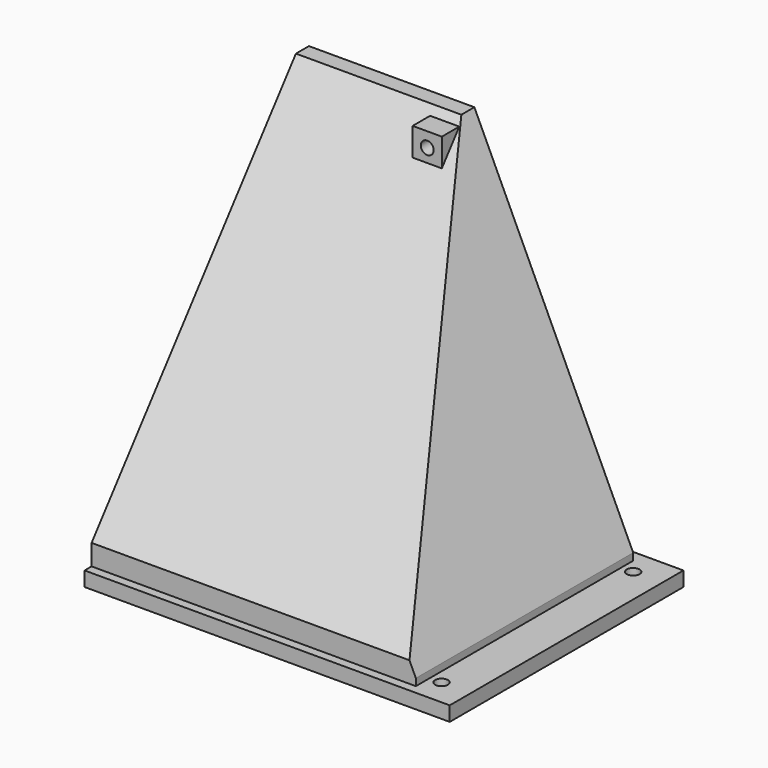
from build123d import *

# Parameters (mm, degrees)
BOX015_W               = 30
BOX015_H               = 9
BOX015_DEPTH           = 5
BOX015_ROLL_ANGLE      = 36
CHAMFER005_SIZE        = 1
BOX014_W               = 150
BOX014_H               = 150
BOX014_DEPTH           = 150
CYLINDER007_R          = 2.2
CYLINDER007_DEPTH      = 50
CYLINDER005_R          = 2.2
CYLINDER005_DEPTH      = 50
CYLINDER006_R          = 2.2
CYLINDER006_DEPTH      = 50
CYLINDER004_R          = 2.2
CYLINDER004_DEPTH      = 50
FUSION_ROLL_ANGLE      = -90
BOX013_W               = 10
BOX013_H               = 8
BOX013_DEPTH           = 10
CHAMFER003_SIZE        = 6
BOX012_W               = 10
BOX012_H               = 8
BOX012_DEPTH           = 10
CHAMFER002_SIZE        = 6
BOX011_W               = 130
BOX011_H               = 10
BOX011_DEPTH           = 10
CYLINDER002_R          = 2.2
CYLINDER002_DEPTH      = 50
CYLINDER003_R          = 2.2
CYLINDER003_DEPTH      = 50
CYLINDER001_R          = 2.2
CYLINDER001_DEPTH      = 50
CYLINDER_R             = 2.2
CYLINDER_DEPTH         = 50
BOX001_W               = 220
BOX001_H               = 70
BOX001_DEPTH           = 12
BOX_W                  = 250
BOX_H                  = 100
BOX_DEPTH              = 5
CYLINDER008_R          = 55
CYLINDER008_DEPTH      = 10
CYLINDER008_ROLL_ANGLE = 90
BOX010_W               = 300
BOX010_H               = 20
BOX010_DEPTH           = 41
BOX008_W               = 234
BOX008_H               = 93
BOX008_DEPTH           = 249
BOX008_ROLL_ANGLE      = -38
BOX009_W               = 120
BOX009_H               = 104
BOX009_DEPTH           = 200
BOX009_PLACEMENT_ANGLE = 25
BOX006_W               = 120
BOX006_H               = 104
BOX006_DEPTH           = 200
BOX006_PLACEMENT_ANGLE = 25
BOX007_W               = 222
BOX007_H               = 93
BOX007_DEPTH           = 120
BOX004_W               = 234
BOX004_H               = 93
BOX004_DEPTH           = 249
BOX004_ROLL_ANGLE      = -38
BOX005_W               = 120
BOX005_H               = 104
BOX005_DEPTH           = 200
BOX005_PLACEMENT_ANGLE = 25
BOX002_W               = 120
BOX002_H               = 104
BOX002_DEPTH           = 200
BOX002_PLACEMENT_ANGLE = 25
BOX003_W               = 222
BOX003_H               = 93
BOX003_DEPTH           = 120
CHAMFER_SIZE           = 2
CHAMFER001_SIZE        = 2
CHAMFER004_SIZE        = 1


with BuildPart() as chamfer005:
    # Box015 → Box015 (new body)
    with BuildSketch(Plane.XY):
        with Locations((15, 4.5)):
            Rectangle(BOX015_W, BOX015_H)
    extrude(amount=BOX015_DEPTH)


with BuildPart() as chamfer005_1:
    # Box015 roll: moved
    add(chamfer005.part.rotate(Axis((0, 0, 0), (1, 0, 0)), BOX015_ROLL_ANGLE))


with BuildPart() as chamfer005_2:
    # Box015 placement: moved
    add(chamfer005_1.part.moved(Location((-30, 39, 114))))

    # Chamfer005
    chamfer005_edges = [chamfer005_2.edges().sort_by_distance(p)[0] for p in [
        (-15, 46.281153, 119.290067),
    ]]
    chamfer(chamfer005_edges, length=CHAMFER005_SIZE)


with BuildPart() as cube014:
    # Box014 → Box014 (new body)
    with BuildSketch(Plane(origin=(0, -70, -1), x_dir=(1, 0, 0), z_dir=(0, 0, 1))):
        with Locations((75, 75)):
            Rectangle(BOX014_W, BOX014_H)
    extrude(amount=BOX014_DEPTH)


with BuildPart() as cylinder007:
    # Cylinder007 → Cylinder007 (new body)
    with BuildSketch(Plane(origin=(52.5, -52.5, 0), x_dir=(1, 0, 0), z_dir=(0, 0, 1))):
        Circle(CYLINDER007_R)
    extrude(amount=CYLINDER007_DEPTH)


with BuildPart() as cylinder005:
    # Cylinder005 → Cylinder005 (new body)
    with BuildSketch(Plane(origin=(52.5, 52.5, 0), x_dir=(1, 0, 0), z_dir=(0, 0, 1))):
        Circle(CYLINDER005_R)
    extrude(amount=CYLINDER005_DEPTH)


with BuildPart() as cylinder006:
    # Cylinder006 → Cylinder006 (new body)
    with BuildSketch(Plane(origin=(-52.5, 52.5, 0), x_dir=(1, 0, 0), z_dir=(0, 0, 1))):
        Circle(CYLINDER006_R)
    extrude(amount=CYLINDER006_DEPTH)


with BuildPart() as fan_holes:
    # Cylinder004 → Cylinder004 (new body)
    with BuildSketch(Plane(origin=(-52.5, -52.5, 0), x_dir=(1, 0, 0), z_dir=(0, 0, 1))):
        Circle(CYLINDER004_R)
    extrude(amount=CYLINDER004_DEPTH)

    # Fusion: union Cylinder007, Cylinder005, Cylinder006
    add(cylinder007.part)
    add(cylinder005.part)
    add(cylinder006.part)


with BuildPart() as fan_holes_1:
    # Fusion roll: moved
    add(fan_holes.part.rotate(Axis((0, 0, 0), (1, 0, 0)), FUSION_ROLL_ANGLE))


with BuildPart() as fan_holes_2:
    # Fusion placement: moved
    add(fan_holes_1.part.moved(Location((0, 15, 64))))


with BuildPart() as chamfer003:
    # Box013 → Box013 (new body)
    with BuildSketch(Plane(origin=(47.5, 31, 111.5), x_dir=(1, 0, 0), z_dir=(0, 0, 1))):
        with Locations((5, 4)):
            Rectangle(BOX013_W, BOX013_H)
    extrude(amount=BOX013_DEPTH)

    # Chamfer003
    chamfer003_edges = [chamfer003.edges().sort_by_distance(p)[0] for p in [
        (52.5, 39, 111.5),
    ]]
    chamfer(chamfer003_edges, length=CHAMFER003_SIZE)


with BuildPart() as part_mirroring002:
    # Part__Mirroring002: instance of Chamfer003
    add(chamfer003.part.mirror(Plane(origin=(0, 0, 0), x_dir=(0, -1, 0), z_dir=(1, 0, 0))))


with BuildPart() as chamfer002:
    # Box012 → Box012 (new body)
    with BuildSketch(Plane(origin=(47.5, 31, 111.5), x_dir=(1, 0, 0), z_dir=(0, 0, 1))):
        with Locations((5, 4)):
            Rectangle(BOX012_W, BOX012_H)
    extrude(amount=BOX012_DEPTH)

    # Chamfer002
    chamfer002_edges = [chamfer002.edges().sort_by_distance(p)[0] for p in [
        (52.5, 39, 111.5),
    ]]
    chamfer(chamfer002_edges, length=CHAMFER002_SIZE)


with BuildPart() as cube011:
    # Box011 → Box011 (new body)
    with BuildSketch(Plane(origin=(-65, 46, -2), x_dir=(1, 0, 0), z_dir=(0, 0, 1))):
        with Locations((65, 5)):
            Rectangle(BOX011_W, BOX011_H)
    extrude(amount=BOX011_DEPTH)


with BuildPart() as cylinder002:
    # Cylinder002 → Cylinder002 (new body)
    with BuildSketch(Plane(origin=(-115, 41, 0), x_dir=(1, 0, 0), z_dir=(0, 0, 1))):
        Circle(CYLINDER002_R)
    extrude(amount=CYLINDER002_DEPTH)


with BuildPart() as cylinder003:
    # Cylinder003 → Cylinder003 (new body)
    with BuildSketch(Plane(origin=(115, 41, 0), x_dir=(1, 0, 0), z_dir=(0, 0, 1))):
        Circle(CYLINDER003_R)
    extrude(amount=CYLINDER003_DEPTH)


with BuildPart() as cylinder001:
    # Cylinder001 → Cylinder001 (new body)
    with BuildSketch(Plane(origin=(115, -41, 0), x_dir=(1, 0, 0), z_dir=(0, 0, 1))):
        Circle(CYLINDER001_R)
    extrude(amount=CYLINDER001_DEPTH)


with BuildPart() as mount_holes:
    # Cylinder → Cylinder (new body)
    with BuildSketch(Plane(origin=(-115, -41, 0), x_dir=(1, 0, 0), z_dir=(0, 0, 1))):
        Circle(CYLINDER_R)
    extrude(amount=CYLINDER_DEPTH)

    # Fusion001: union Cylinder002, Cylinder003, Cylinder001
    add(cylinder002.part)
    add(cylinder003.part)
    add(cylinder001.part)


with BuildPart() as mount_holes_1:
    # Fusion001 placement: moved
    add(mount_holes.part.moved(Location((0, 0, -1))))


with BuildPart() as cube001:
    # Box001 → Box001 (new body)
    with BuildSketch(Plane(origin=(-110, -35, -1), x_dir=(1, 0, 0), z_dir=(0, 0, 1))):
        with Locations((110, 35)):
            Rectangle(BOX001_W, BOX001_H)
    extrude(amount=BOX001_DEPTH)


with BuildPart() as cut001:
    # Box → Box (new body)
    with BuildSketch(Plane(origin=(-125, -50, 0), x_dir=(1, 0, 0), z_dir=(0, 0, 1))):
        with Locations((125, 50)):
            Rectangle(BOX_W, BOX_H)
    extrude(amount=BOX_DEPTH)

    # Cut: cut Cube001
    add(cube001.part, mode=Mode.SUBTRACT)

    # Cut001: cut mount-holes
    add(mount_holes_1.part, mode=Mode.SUBTRACT)


with BuildPart() as cylinder008:
    # Cylinder008 → Cylinder008 (new body)
    with BuildSketch(Plane.XY):
        Circle(CYLINDER008_R)
    extrude(amount=CYLINDER008_DEPTH)


with BuildPart() as cylinder008_1:
    # Cylinder008 roll: moved
    add(cylinder008.part.rotate(Axis((0, 0, 0), (1, 0, 0)), CYLINDER008_ROLL_ANGLE))


with BuildPart() as cylinder008_2:
    # Cylinder008 placement: moved
    add(cylinder008_1.part.moved(Location((0, 49, 64))))


with BuildPart() as cube010:
    # Box010 → Box010 (new body)
    with BuildSketch(Plane(origin=(-150, -62, -12), x_dir=(1, 0, 0), z_dir=(0, 0, 1))):
        with Locations((150, 10)):
            Rectangle(BOX010_W, BOX010_H)
    extrude(amount=BOX010_DEPTH)


with BuildPart() as cube008:
    # Box008 → Box008 (new body)
    with BuildSketch(Plane.XY):
        with Locations((117, 46.5)):
            Rectangle(BOX008_W, BOX008_H)
    extrude(amount=BOX008_DEPTH)


with BuildPart() as cube008_1:
    # Box008 roll: moved
    add(cube008.part.rotate(Axis((0, 0, 0), (1, 0, 0)), BOX008_ROLL_ANGLE))


with BuildPart() as cube008_2:
    # Box008 placement: moved
    add(cube008_1.part.moved(Location((-121, -144, 39))))


with BuildPart() as cube009:
    # Box009 → Box009 (new body)
    with BuildSketch(Plane.XY):
        with Locations((60, 52)):
            Rectangle(BOX009_W, BOX009_H)
    extrude(amount=BOX009_DEPTH)


with BuildPart() as cube009_1:
    # Box009 placement: moved
    add(cube009.part.moved(Location((-245, -55, 4))).rotate(Axis((-245, -55, 4), (0, 1, 0)), BOX009_PLACEMENT_ANGLE))


with BuildPart() as part_mirroring001:
    # Part__Mirroring001: instance of Cube009
    add(cube009_1.part.mirror(Plane(origin=(0, 0, 0), x_dir=(0, -1, 0), z_dir=(1, 0, 0))))


with BuildPart() as fusion003:
    # Box006 → Box006 (new body)
    with BuildSketch(Plane.XY):
        with Locations((60, 52)):
            Rectangle(BOX006_W, BOX006_H)
    extrude(amount=BOX006_DEPTH)


with BuildPart() as fusion003_1:
    # Box006 placement: moved
    add(fusion003.part.moved(Location((-245, -55, 4))).rotate(Axis((-245, -55, 4), (0, 1, 0)), BOX006_PLACEMENT_ANGLE))

    # Fusion003: union Part__Mirroring001
    add(part_mirroring001.part)


with BuildPart() as cut006:
    # Box007 → Box007 (new body)
    with BuildSketch(Plane(origin=(-111, -47, 4), x_dir=(1, 0, 0), z_dir=(0, 0, 1))):
        with Locations((111, 46.5)):
            Rectangle(BOX007_W, BOX007_H)
    extrude(amount=BOX007_DEPTH)

    # Cut004: cut Fusion003
    add(fusion003_1.part, mode=Mode.SUBTRACT)

    # Cut005: cut Cube008
    add(cube008_2.part, mode=Mode.SUBTRACT)


with BuildPart() as cut006_1:
    # Cut005 placement: moved
    add(cut006.part.moved(Location((0, -3, -11))))

    # Cut006: cut Cube010
    add(cube010.part, mode=Mode.SUBTRACT)


with BuildPart() as cube004:
    # Box004 → Box004 (new body)
    with BuildSketch(Plane.XY):
        with Locations((117, 46.5)):
            Rectangle(BOX004_W, BOX004_H)
    extrude(amount=BOX004_DEPTH)


with BuildPart() as cube004_1:
    # Box004 roll: moved
    add(cube004.part.rotate(Axis((0, 0, 0), (1, 0, 0)), BOX004_ROLL_ANGLE))


with BuildPart() as cube004_2:
    # Box004 placement: moved
    add(cube004_1.part.moved(Location((-121, -144, 39))))


with BuildPart() as cube005:
    # Box005 → Box005 (new body)
    with BuildSketch(Plane.XY):
        with Locations((60, 52)):
            Rectangle(BOX005_W, BOX005_H)
    extrude(amount=BOX005_DEPTH)


with BuildPart() as cube005_1:
    # Box005 placement: moved
    add(cube005.part.moved(Location((-245, -55, 4))).rotate(Axis((-245, -55, 4), (0, 1, 0)), BOX005_PLACEMENT_ANGLE))


with BuildPart() as part_mirroring:
    # Part__Mirroring: instance of Cube005
    add(cube005_1.part.mirror(Plane(origin=(0, 0, 0), x_dir=(0, -1, 0), z_dir=(1, 0, 0))))


with BuildPart() as fusion002:
    # Box002 → Box002 (new body)
    with BuildSketch(Plane.XY):
        with Locations((60, 52)):
            Rectangle(BOX002_W, BOX002_H)
    extrude(amount=BOX002_DEPTH)


with BuildPart() as fusion002_1:
    # Box002 placement: moved
    add(fusion002.part.moved(Location((-245, -55, 4))).rotate(Axis((-245, -55, 4), (0, 1, 0)), BOX002_PLACEMENT_ANGLE))

    # Fusion002: union Part__Mirroring
    add(part_mirroring.part)


with BuildPart() as fusion006:
    # Box003 → Box003 (new body)
    with BuildSketch(Plane(origin=(-111, -47, 4), x_dir=(1, 0, 0), z_dir=(0, 0, 1))):
        with Locations((111, 46.5)):
            Rectangle(BOX003_W, BOX003_H)
    extrude(amount=BOX003_DEPTH)

    # Cut002: cut Fusion002
    add(fusion002_1.part, mode=Mode.SUBTRACT)

    # Cut003: cut Cube004
    add(cube004_2.part, mode=Mode.SUBTRACT)

    # Cut007: cut Cut006
    add(cut006_1.part, mode=Mode.SUBTRACT)

    # Cut008: cut Cylinder008
    add(cylinder008_2.part, mode=Mode.SUBTRACT)

    # Fusion004: union Cut001
    add(cut001.part)

    # Cut009: cut Cube011
    add(cube011.part, mode=Mode.SUBTRACT)

    # Chamfer
    chamfer_edges = [fusion006.edges().sort_by_distance(p)[0] for p in [
        (107.465265, 0, 4),
    ]]
    chamfer(chamfer_edges, length=CHAMFER_SIZE)

    # Chamfer001
    chamfer001_edges = [fusion006.edges().sort_by_distance(p)[0] for p in [
        (-107.465265, 0, 4),
    ]]
    chamfer(chamfer001_edges, length=CHAMFER001_SIZE)

    # Fusion005: union Part__Mirroring002, Chamfer002
    add(part_mirroring002.part)
    add(chamfer002.part)

    # Cut010: cut fan-holes
    add(fan_holes_2.part, mode=Mode.SUBTRACT)

    # Chamfer004
    chamfer004_edges = [fusion006.edges().sort_by_distance(p)[0] for p in [
        (0, 39, 113),
    ]]
    chamfer(chamfer004_edges, length=CHAMFER004_SIZE)

    # Cut011: cut Cube014
    add(cube014.part, mode=Mode.SUBTRACT)

    # Fusion006: union Chamfer005
    add(chamfer005_2.part)


with BuildPart() as part_mirroring003:
    # Part__Mirroring003: instance of Fusion006
    add(fusion006.part.mirror(Plane(origin=(0, 0, 0), x_dir=(0, -1, 0), z_dir=(1, 0, 0))))


solid = part_mirroring003.part
